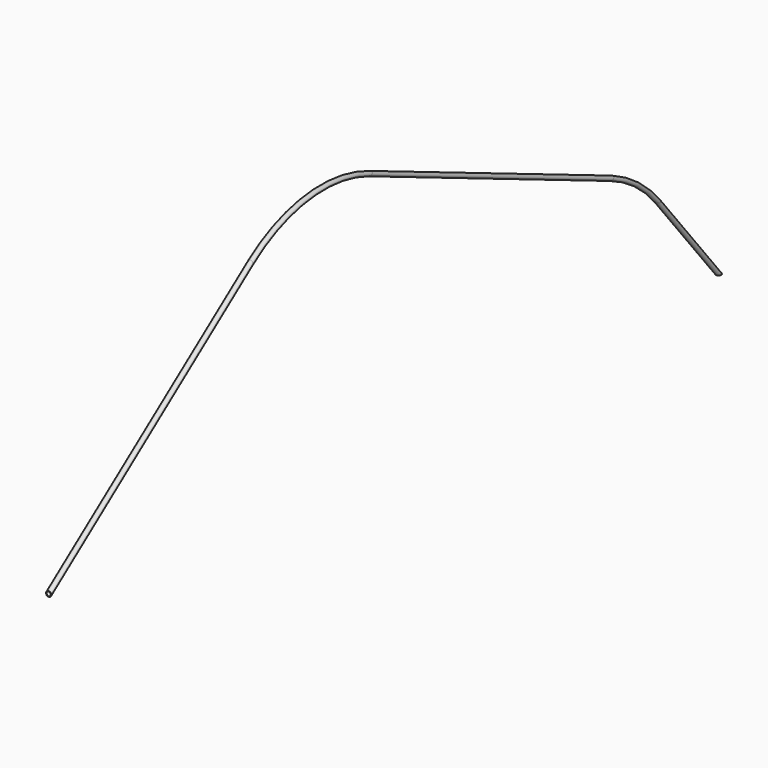
from build123d import *

# Parameters (mm, degrees)
F0_R   = 15.875
F0_R_2 = 12.7


with BuildPart() as f2:
    # F2: sweep along a path in F1
    with BuildLine(Plane.YZ) as f2_path:
        Line((0, 0), (1531.9742596197, 1147.9371744023))
        ThreePointArc((1531.9742596197, 1147.9371744023), (1968.4276586335, 1323.7092638038), (2434.5010240472, 1259.1878334472))
        Line((2434.5010240472, 1259.1878334472), (4268.5581705624, 488.575575784))
        ThreePointArc((4268.5581705624, 488.575575784), (4464.8592098383, 375.6818575322), (4627.3980592597, 218.010642435))
        Line((4627.3980592597, 218.010642435), (5088.4179589285, -356.2424536127))
    # F0 (on Front) → F2 (sweep)
    with BuildSketch(Plane.XZ):
        Circle(F0_R)
        Circle(F0_R_2, mode=Mode.SUBTRACT)
    sweep(path=f2_path.line)


solid = f2.part
